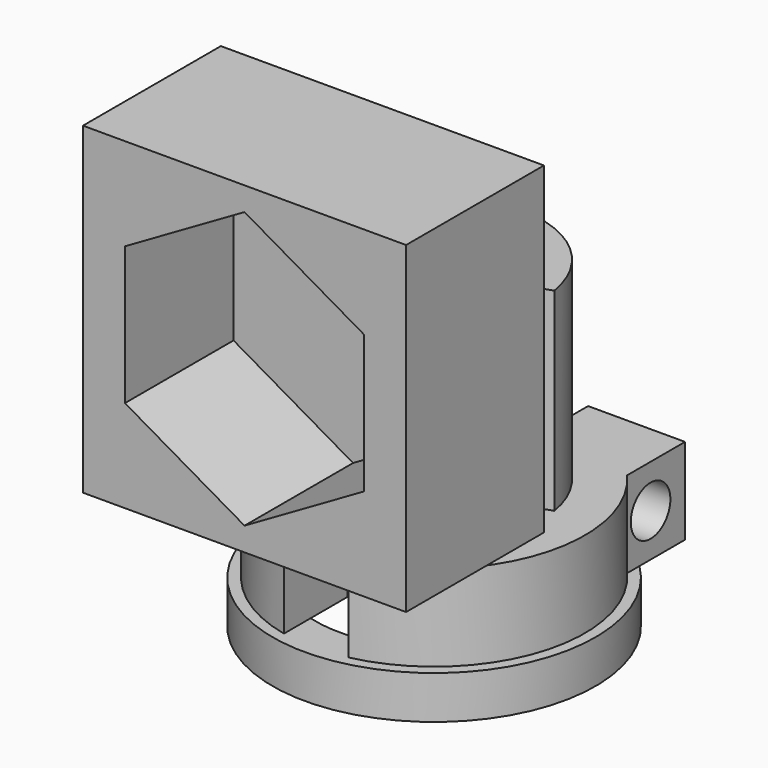
from build123d import *

# Parameters (mm, degrees)
SKETCH_R        = 7.5
SKETCH_R_2      = 5.5
PAD_DEPTH       = 2
SKETCH001_R     = 7
SKETCH001_R_2   = 3.5
PAD001_DEPTH    = 4
SKETCH002_R     = 5
PAD002_DEPTH    = 9
SKETCH003_W     = 10.5
SKETCH003_H     = 4
PAD003_DEPTH    = 4
SKETCH004_R     = 1.15
POCKET_DEPTH    = 12.751
SKETCH005_R     = 9
POCKET001_DEPTH = 9
SKETCH006_W     = 1.5
SKETCH006_H     = 9
POCKET002_DEPTH = 15.001
SKETCH007_W     = 3
SKETCH007_H     = 9
POCKET003_DEPTH = 5
SKETCH008_W     = 15
SKETCH008_H     = 8
PAD004_DEPTH    = 7.5
POCKET004_DEPTH = 6.3


with BuildPart() as part:
    # Sketch → Pad (new body)
    with BuildSketch(Plane.XY):
        Circle(SKETCH_R)
        Circle(SKETCH_R_2, mode=Mode.SUBTRACT)
    extrude(amount=PAD_DEPTH)

    # Sketch001 (on Face4 of Pad) → Pad001 (join)
    with BuildSketch(Plane.XY.offset(2)):
        Circle(SKETCH001_R)
        Circle(SKETCH001_R_2, mode=Mode.SUBTRACT)
    extrude(amount=PAD001_DEPTH)

    # Sketch002 (on Face7 of Pad001) → Pad002 (join)
    with BuildSketch(Plane.XY.offset(6)):
        Circle(SKETCH002_R)
        with BuildLine():
            ThreePointArc((1.75, 0.85), (0, 2.6), (-1.75, 0.85))
            Line((-1.75, 0.85), (-1.75, -0.85))
            ThreePointArc((-1.75, -0.85), (0, -2.6), (1.75, -0.85))
            Line((1.75, 0.85), (1.75, -0.85))
        make_face(mode=Mode.SUBTRACT)
    extrude(amount=PAD002_DEPTH)

    # Sketch003 (on Face3 of Pad002) → Pad003 (join)
    with BuildSketch(Plane.XY.offset(2)):
        with Locations((0, 6)):
            Rectangle(SKETCH003_W, SKETCH003_H)
    extrude(amount=PAD003_DEPTH)

    # Sketch004 (on Face6 of Pad003) → Pocket (cut, through all)
    with BuildSketch(Plane(origin=(-5.25, 0, 0), x_dir=(0, -1, 0), z_dir=(-1, 0, 0))):
        with Locations((-6, 4)):
            Circle(SKETCH004_R)
    extrude(amount=-POCKET_DEPTH, mode=Mode.SUBTRACT)

    # Sketch005 (on Face20 of Pocket) → Pocket001 (cut)
    with BuildSketch(Plane.XY.offset(15)):
        Circle(SKETCH005_R)
        Polygon((0.5, 8.5), (0, 3), (-0.5, 8.5), (-8.5, 2), (-2.5, 0), (-8.5, -2), (-0.5, -8.5), (0, -3), (0.5, -8.5), (8.5, -2), (2.5, 0), (8.5, 2), align=None, mode=Mode.SUBTRACT)
    extrude(amount=-POCKET001_DEPTH, mode=Mode.SUBTRACT)

    # Sketch006 (on Face2 of Pocket001) → Pocket002 (cut, through all)
    with BuildSketch(Plane(origin=(0, 0, 0), x_dir=(1, 0, 0), z_dir=(0, 0, -1))):
        with Locations((0, -4.5)):
            Rectangle(SKETCH006_W, SKETCH006_H)
    extrude(amount=-POCKET002_DEPTH, mode=Mode.SUBTRACT)

    # Sketch007 (on Face16 of Pocket002) → Pocket003 (cut)
    with BuildSketch(Plane(origin=(0, 0, 2), x_dir=(1, 0, 0), z_dir=(0, 0, -1))):
        with Locations((0, 4.5)):
            Rectangle(SKETCH007_W, SKETCH007_H)
    extrude(amount=-POCKET003_DEPTH, mode=Mode.SUBTRACT)

    # Sketch008 (on Face24 of Pocket003) → Pad004 (join, symmetric)
    with BuildSketch(Plane.XY.offset(15)):
        with Locations((0, -7)):
            Rectangle(SKETCH008_W, SKETCH008_H)
    extrude(amount=PAD004_DEPTH, both=True)

    # Sketch009 (on Face78 of Pad004) → Pocket004 (cut)
    with BuildSketch(Plane.XZ.offset(11)):
        Polygon((0, 21.408588), (-5.55, 18.204294), (-5.55, 11.795706), (0, 8.591412), (5.55, 11.795706), (5.55, 18.204294), align=None)
    extrude(amount=-POCKET004_DEPTH, mode=Mode.SUBTRACT)


solid = part.part
